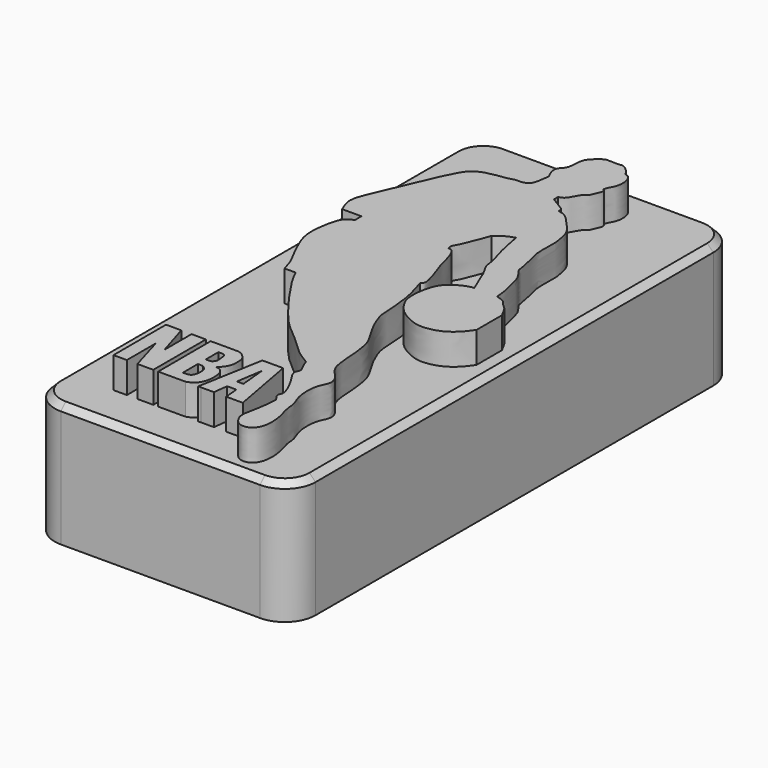
from build123d import *

# Parameters (mm, degrees)
F0_W     = 42.2986149788
F0_H     = 90.5954684317
F1_DEPTH = 20
F3_DEPTH = 25
F5_DEPTH = 25
F6_R     = 5
F7_SIZE  = 1


with BuildPart() as f1:
    # F0 (on Top) → F1 (new body)
    with BuildSketch(Plane.XY):
        with Locations((49.4557991624, 48.1699483842)):
            Rectangle(F0_W, F0_H)
    extrude(amount=F1_DEPTH)

    # F2 (on Top) → F3 (join)
    with BuildSketch(Plane.XY):
        Polygon((36.055687815, 20.7398366183), (36.0796526074, 10.0742857903), (38.2458940148, 10.0742857903), (38.2458940148, 15.9402880818), (39.9590022862, 10.0742857903), (42.5286628306, 10.0742857903), (42.5286628306, 20.7398366183), (40.2008518577, 20.7398366183), (40.2008518577, 15.2348913252), (38.5344102979, 20.7398366183), align=None)
        with BuildLine():
            Line((43.2978458703, 20.7398366183), (43.3218106627, 10.0742857903))
            Line((43.3218106627, 10.0742857903), (47.7480830089, 10.0842313337))
            add(Edge.make_bspline(
                [(47.7480830089, 10.0842313337), (48.1087432952, 10.2133146757), (48.8445935718, 10.4766816625), (49.563235782, 11.5558703614), (49.8236934521, 12.7384220174), (49.7863234473, 13.9018908494), (49.583610245, 14.8427504875), (49.1631987871, 15.2933041606), (48.8423188532, 15.5550943093), (48.4761063024, 15.6161931814), (48.2765883207, 15.6494807452)],
                knots=[0, 0, 0, 0, 0.1425587296, 0.290860637, 0.4380580574, 0.5831427066, 0.7130520112, 0.8150173707, 0.8992187439, 1, 1, 1, 1], degree=3))
            add(Edge.make_bspline(
                [(48.2765883207, 15.6494807452), (48.5021701057, 15.8512776922), (48.9842603055, 16.2825373816), (49.5676116966, 17.4245150242), (49.5223190759, 18.2955598828), (49.5531799121, 19.2233529283), (49.2401114472, 19.7813721648), (48.7309459351, 20.3115735576), (48.2972179184, 20.6397746913), (47.8887377352, 20.7057129682), (47.6773455739, 20.7398366183)],
                knots=[0, 0, 0, 0, 0.1367551799, 0.2922591113, 0.4245919618, 0.556870652, 0.668022351, 0.7871862686, 0.8898669838, 1, 1, 1, 1], degree=3))
            Line((47.6773455739, 20.7398366183), (43.2978458703, 20.7398366183))
        make_face()
        with BuildLine():
            Line((45.9417700768, 11.8108671159), (45.9417700768, 14.8345855996))
            Line((45.9417700768, 14.8345855996), (46.7864610255, 14.8444883525))
            add(Edge.make_bspline(
                [(46.7864610255, 11.8108671159), (46.9406402143, 11.8753830843), (47.2869743183, 12.0203058868), (47.5918784545, 12.8001326247), (47.5762787273, 13.6386001978), (47.473049455, 14.2723677593), (47.0004626411, 14.6509471882), (46.8490287918, 14.7879026192), (46.7864610255, 14.8444883525)],
                knots=[0, 0, 0, 0, 0.1546760263, 0.3474501542, 0.5487094974, 0.7203573696, 0.8844603446, 1, 1, 1, 1], degree=3))
            Line((46.7864610255, 11.8108671159), (45.9417700768, 11.8108671159))
        make_face(mode=Mode.SUBTRACT)
        with BuildLine():
            Line((45.9417700768, 16.4990946651), (45.9417700768, 18.9982168376))
            add(Edge.make_bspline(
                [(45.9417700768, 18.9982168376), (46.1360122209, 19.0087303933), (46.5128688139, 19.0291281437), (47.0820944715, 18.883156538), (47.2122556912, 18.3175496369), (47.2409681127, 17.6744307773), (47.3262858861, 17.0603896068), (47.0109601508, 16.620407197), (46.802475649, 16.4954691769), (46.7076301575, 16.4386313409)],
                knots=[0, 0, 0, 0, 0.1501636603, 0.2913382452, 0.4325130684, 0.5930284338, 0.7457593668, 0.8843387512, 1, 1, 1, 1], degree=3))
            Line((46.7076301575, 16.4386313409), (45.9417700768, 16.4386313409))
            Line((45.9417700768, 16.4386313409), (45.9417700768, 16.4990946651))
        make_face(mode=Mode.SUBTRACT)
        Polygon((51.7119988799, 20.7069336531), (49.7993193567, 10.0842313337), (50.2696111798, 10.0842313337), (52.3502913998, 10.0889064855), (52.6353046298, 12.4014830217), (54.1316716822, 12.4048452602), (54.3454475701, 10.0842313337), (57.024674611, 10.090251381), (55.0688118837, 20.7069336531), align=None)
        Polygon((53.8484301118, 14.1875470811), (52.8003275394, 14.1851920635), (53.4452609718, 18.4175763279), align=None, mode=Mode.SUBTRACT)
    extrude(amount=F3_DEPTH)

    # F4 (on Top) → F5 (join)
    with BuildSketch(Plane.XY):
        with BuildLine():
            add(Edge.make_bspline(
                [(56.1274066567, 84.2732414603), (56.229150813, 84.2232441252), (56.4728196772, 84.1035046305), (56.337121933, 83.3743911851), (56.050758006, 82.8990855071), (55.735074782, 81.8778771736), (55.2318611182, 81.6410828618), (55.0278927385, 81.5558828585), (54.5819046123, 80.7490916807), (54.2354535348, 80.115717472), (53.9106311277, 79.5688752382), (53.459832826, 79.200400918), (53.1140396141, 79.1386601146), (52.9446564615, 79.1084170341)],
                knots=[0, 0, 0, 0, 0.0678715229, 0.1625467004, 0.2565904937, 0.3775953815, 0.4611467181, 0.5152389074, 0.6265363414, 0.7320824569, 0.8257722511, 0.9146563773, 1, 1, 1, 1], degree=3))
            add(Edge.make_bspline(
                [(48.5117994249, 85.7447609305), (48.6469496875, 85.9571674987), (48.9866720729, 86.4910862982), (48.9038850486, 88.5010562955), (49.5663486287, 89.68028046), (50.9161907397, 90.7543644916), (51.4699772054, 90.9644540583), (53.3709341076, 90.7423414962), (54.0367859485, 91.1058383591), (55.4337685105, 89.9237017684), (55.6794565063, 89.1517941773), (56.5448827463, 89.1463395572), (57.1479157196, 87.3245317916), (56.8134211427, 85.7650075433), (56.1793082134, 84.838163683), (56.1425816052, 84.4384131075), (56.1274066567, 84.2732414603)],
                knots=[0, 0, 0, 0, 0.0607238925, 0.1526394785, 0.2316409614, 0.3155538267, 0.3686193295, 0.4575232383, 0.5144833492, 0.5997123459, 0.6573963946, 0.710626782, 0.7975625835, 0.8831475775, 0.9517181255, 1, 1, 1, 1], degree=3))
            add(Edge.make_bspline(
                [(48.5117994249, 82.7716514468), (48.3253370148, 83.1147899129), (47.9579360329, 83.7909015716), (47.7830903551, 84.9959305551), (48.2737616328, 85.5001503766), (48.5117994249, 85.7447609305)],
                knots=[0, 0, 0, 0, 0.3466578766, 0.6830462194, 1, 1, 1, 1], degree=3))
            add(Edge.make_bspline(
                [(44.6238927543, 79.0743306279), (45.0678377382, 79.2119030304), (45.9022370131, 79.4704718104), (46.9457667893, 79.2902889335), (47.9972958068, 79.8875932357), (48.2822577875, 80.9753305346), (48.4285661518, 82.1202939381), (48.5117994249, 82.7716514468)],
                knots=[0, 0, 0, 0, 0.2064870059, 0.3880945032, 0.5722594574, 0.7566629524, 1, 1, 1, 1], degree=3))
            add(Edge.make_bspline(
                [(33.6843840778, 59.4041906297), (33.3236561867, 60.2091792984), (32.5245859689, 61.9923584948), (34.1884782365, 65.6413982415), (36.7620644165, 71.8239236442), (38.5557237668, 75.8317677655), (40.1565984725, 78.4540093607), (43.021497989, 78.8518246794), (44.6238927543, 79.0743306279)],
                knots=[0, 0, 0, 0, 0.1335812846, 0.295904001, 0.5142379473, 0.6895913514, 0.8263823248, 1, 1, 1, 1], degree=3))
            add(Edge.make_bspline(
                [(36.8099585176, 59.4041906297), (35.768100371, 59.4041906297), (34.7262422244, 59.4041906297), (33.6843840778, 59.4041906297)],
                knots=[0, 0, 0, 0, 3.1255744398, 3.1255744398, 3.1255744398, 3.1255744398], degree=3))
            add(Edge.make_bspline(
                [(36.8099585176, 58.1101104617), (36.8099585176, 58.5414705177), (36.8099585176, 58.9728305737), (36.8099585176, 59.4041906297)],
                knots=[0, 0, 0, 0, 1.294080168, 1.294080168, 1.294080168, 1.294080168], degree=3))
            add(Edge.make_bspline(
                [(38.1535254419, 42.1514213085), (37.964734184, 42.8242763665), (37.570981414, 44.227617527), (36.2708094893, 46.4057030885), (35.2836998167, 48.6725748714), (34.2775504693, 51.1453953212), (34.6121438995, 54.4412539523), (35.0155671566, 56.1512391648), (35.3633174087, 57.1109704817), (36.0702608142, 57.7202583433), (36.5659293702, 57.9814967326), (36.8099585176, 58.1101104617)],
                knots=[0, 0, 0, 0, 0.119530632, 0.2492992419, 0.3777800361, 0.5114139792, 0.659596532, 0.7680274336, 0.8480065227, 0.9251700795, 1, 1, 1, 1], degree=3))
            add(Edge.make_bspline(
                [(39.9484522641, 42.1514213085), (39.3501433233, 42.1514213085), (38.7518343826, 42.1514213085), (38.1535254419, 42.1514213085)],
                knots=[0, 0, 0, 0, 1.7949268222, 1.7949268222, 1.7949268222, 1.7949268222], degree=3))
            add(Edge.make_bspline(
                [(56.2475062907, 23.8620564342), (55.5399831894, 24.2778751794), (53.9359586469, 25.2205772219), (50.925816745, 28.3079001133), (48.166823337, 30.3397937613), (45.4486732402, 33.7108027293), (43.081021028, 36.901975711), (40.6645705609, 40.5738351364), (40.1464204861, 41.7153035178), (39.9484522641, 42.1514213085)],
                knots=[0, 0, 0, 0, 0.1247930748, 0.2829181892, 0.4271026449, 0.5841692073, 0.7419094967, 0.9013920473, 1, 1, 1, 1], degree=3))
            add(Edge.make_bspline(
                [(59.8058067262, 13.3231272921), (59.6625880268, 13.5368829578), (59.3859600903, 13.9497535466), (58.9671709632, 14.6559764583), (59.7242496445, 15.316849637), (58.1778261411, 18.497969213), (57.1482264935, 19.8137645232), (56.763603565, 20.9356493301), (57.4158210202, 21.571715386), (56.6003394853, 22.795895389), (56.363025574, 23.5129901851), (56.2475062907, 23.8620564342)],
                knots=[0, 0, 0, 0, 0.09047671, 0.174756409, 0.2611657544, 0.4462167365, 0.5866525422, 0.6876178608, 0.7731944468, 0.8895959584, 1, 1, 1, 1], degree=3))
            add(Edge.make_bspline(
                [(54.0490709245, 49.7674196959), (54.2881416796, 48.9979063909), (54.7673477222, 47.4554532983), (55.2859243125, 45.1501885877), (55.576518189, 41.8977237006), (55.5189988709, 39.451282432), (57.4315939992, 35.4223904644), (59.149808107, 33.1623634852), (59.7214110473, 29.0406460385), (59.7557137094, 24.656157763), (61.8966826758, 23.0250907296), (62.4816541062, 21.3146068378), (61.670330521, 19.9720390649), (61.3374602645, 18.5702162768), (61.3346935347, 15.8815449957), (62.3955748518, 13.849392268), (62.2788498806, 12.6350272206), (62.9934405789, 10.3645817246), (63.2331954926, 8.910953426), (63.2013293625, 6.5470696984), (61.9218426051, 5.0362243272), (60.1645149785, 5.1521622064), (59.3252805866, 6.2647466421), (58.9029210092, 7.2777609555), (59.2330864876, 9.2596744779), (59.6741291444, 11.288143178), (59.7623285197, 12.6512022887), (59.8058067262, 13.3231272921)],
                knots=[0, 0, 0, 0, 0.0417241682, 0.0836341254, 0.1316627898, 0.174599741, 0.230322024, 0.2761564092, 0.3308216225, 0.3865756814, 0.4289904194, 0.4630515556, 0.4953073781, 0.5277726799, 0.5719570529, 0.612008468, 0.6416955861, 0.6823291141, 0.7163070314, 0.7568548303, 0.7929029318, 0.8261350928, 0.8567554195, 0.8844701892, 0.9220511034, 0.9615748046, 1, 1, 1, 1], degree=3))
            add(Edge.make_bspline(
                [(50.9137362242, 59.4041906297), (51.1284558845, 59.409710155), (51.7244788516, 59.4250313597), (52.5840727882, 57.1490585766), (52.8109390015, 55.3813674983), (54.8878641952, 50.3197930094), (54.227203546, 49.8847259617), (54.0490709245, 49.7674196959)],
                knots=[0, 0, 0, 0, 0.1183675435, 0.3285669062, 0.5505454316, 0.8788144555, 1, 1, 1, 1], degree=3))
            add(Edge.make_bspline(
                [(53.0295148492, 65.5224397779), (52.8961426222, 65.0854871557), (52.6193233359, 64.1785748573), (51.906634596, 62.7359839627), (51.4621298575, 61.2192588591), (50.6767924283, 60.16833199), (50.8419335356, 59.6357535787), (50.9137362242, 59.4041906297)],
                knots=[0, 0, 0, 0, 0.2079878159, 0.4316868662, 0.6560517968, 0.850452706, 1, 1, 1, 1], degree=3))
            add(Edge.make_bspline(
                [(55.7786822319, 67.0452564955), (55.2677625546, 66.8700291624), (54.2520460835, 66.5216744283), (53.4353842761, 65.8541767376), (53.0295148492, 65.5224397779)],
                knots=[0, 0, 0, 0, 0.5030140711, 1, 1, 1, 1], degree=3))
            add(Edge.make_bspline(
                [(60.2642968297, 52.9403164983), (59.872435557, 53.8018123936), (59.1805324297, 55.3229417974), (58.7810376942, 56.763240062), (57.5127611075, 58.5559726591), (57.5481410268, 59.992795687), (56.6404201597, 62.7109370089), (56.2353636559, 64.5806834856), (55.9877441007, 65.9760150978), (55.8454322901, 66.7038650887), (55.7786822319, 67.0452564955)],
                knots=[0, 0, 0, 0, 0.1500954194, 0.2650210605, 0.3969880528, 0.5088074979, 0.664410433, 0.7954547666, 0.9040599219, 1, 1, 1, 1], degree=3))
            add(Edge.make_bspline(
                [(67.6454603672, 44.1778004169), (67.4223852159, 43.8579821739), (66.9684239748, 43.2071473063), (66.1477847809, 42.2640284265), (64.5162904862, 41.0311962582), (62.4923639178, 40.5457755901), (60.7762532947, 40.4988350123), (59.1365508246, 41.2166768383), (57.315819026, 42.2070439392), (56.0413172868, 43.9220474765), (55.4242907646, 45.2056673549), (55.3222196084, 47.0972507299), (55.6122495545, 48.933749853), (56.3046504615, 51.2252053655), (58.7990204965, 52.716867493), (59.8954136716, 52.9621077619), (60.1675446491, 52.9460319999), (60.2642968297, 52.9403164983)],
                knots=[0, 0, 0, 0, 0.0559255275, 0.1138092778, 0.1874407043, 0.2623868599, 0.3293893084, 0.397921391, 0.4729288985, 0.547758991, 0.6094476985, 0.6793049214, 0.7504676027, 0.8296890274, 0.9169619004, 0.9704770207, 1, 1, 1, 1], degree=3))
            add(Edge.make_bspline(
                [(67.6454603672, 49.3339374661), (67.6454603672, 47.6152251164), (67.6454603672, 45.8965127667), (67.6454603672, 44.1778004169)],
                knots=[0, 0, 0, 0, 5.1561370492, 5.1561370492, 5.1561370492, 5.1561370492], degree=3))
            add(Edge.make_bspline(
                [(63.9295130968, 52.9403164983), (64.4604331246, 52.8095907488), (65.3875536965, 52.581310546), (65.7539028687, 51.7535894609), (66.6526891441, 51.2096400708), (67.1756216, 50.1794845246), (67.4931836392, 49.6079828376), (67.6454603672, 49.3339374661)],
                knots=[0, 0, 0, 0, 0.2339378132, 0.4085145556, 0.6024973616, 0.8093903122, 1, 1, 1, 1], degree=3))
            add(Edge.make_bspline(
                [(52.9446564615, 78.2507956028), (53.905468965, 77.6972364463), (55.2249836238, 76.9370158841), (55.4707438883, 76.5318356198), (55.3131929976, 76.0671122663), (56.2131584635, 76.0147495003), (57.1161926838, 75.4054620431), (58.1138900613, 74.3151742365), (59.5268818087, 72.784529762), (60.1292260345, 71.4891369468), (60.4194475775, 69.8148671068), (60.5284566986, 69.041515966), (60.3866747662, 65.5641834908), (60.7188130672, 64.5212290476), (60.9640072183, 63.5261894968), (61.1751197865, 62.3936975545), (61.495949214, 61.0367464766), (61.5204186005, 60.2053585764), (62.5500915557, 59.1305057738), (63.0507101891, 57.8528536092), (63.4001586868, 56.1606383829), (63.7536008661, 55.1402663712), (63.9760133872, 53.3209910689), (63.9404960848, 53.0302287158), (63.9295130968, 52.9403164983)],
                knots=[0, 0, 0, 0, 0.0669753564, 0.0919794072, 0.1150317809, 0.1493841691, 0.1921459315, 0.2422148352, 0.3007231791, 0.3505223752, 0.4013925481, 0.4401049505, 0.5149227044, 0.559139721, 0.5986936505, 0.6432638733, 0.6910598406, 0.7276470502, 0.7755321761, 0.8243903324, 0.8768076806, 0.9216482141, 0.9757713379, 1, 1, 1, 1], degree=3))
            add(Edge.make_bspline(
                [(52.9446564615, 79.1084170341), (52.9446564615, 78.8225432237), (52.9446564615, 78.5366694132), (52.9446564615, 78.2507956028)],
                knots=[0, 0, 0, 0, 0.8576214314, 0.8576214314, 0.8576214314, 0.8576214314], degree=3))
        make_face()
    extrude(amount=F5_DEPTH)

    # F6
    f6_edges = [f1.edges().sort_by_distance(p)[0] for p in [
        (28.306492, 93.467683, 10),
        (70.605107, 93.467683, 10),
        (28.306492, 2.872214, 10),
        (70.605107, 2.872214, 10),
    ]]
    fillet(f6_edges, radius=F6_R)

    # F7
    f7_edges = [f1.edges().sort_by_distance(p)[0] for p in [
        (28.306492, 48.169948, 20),
    ]]
    chamfer(f7_edges, length=F7_SIZE)


solid = f1.part
